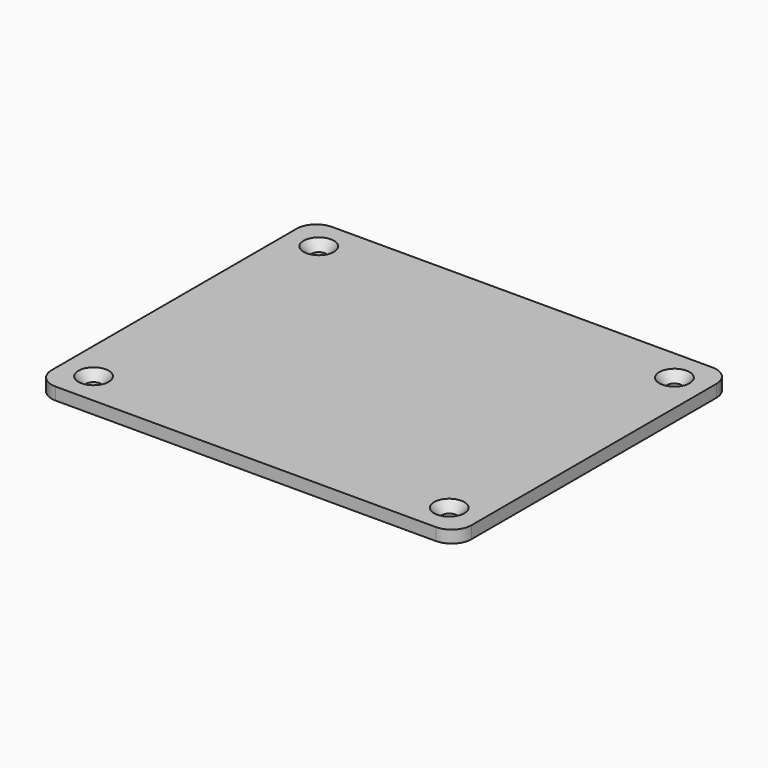
from build123d import *

# Parameters (mm, degrees)
F0_W           = 107.95
F0_H           = 88.9
F1_DEPTH       = 3.175
F3_D           = 3.7973
F3_CSINK_D     = 7.7978
F3_CSINK_ANGLE = 82
F4_R           = 5.08


with BuildPart() as f1:
    # F0 (on Top) → F1 (new body)
    with BuildSketch(Plane.XY):
        with Locations((53.975, 44.45)):
            Rectangle(F0_W, F0_H)
    extrude(amount=F1_DEPTH)

    # F3 (through all)
    with Locations(Plane.XY.offset(3.175)):
        with Locations((8.255, 80.645), (99.695, 80.645), (99.695, 8.255), (8.255, 8.255)):
            CounterSinkHole(F3_D / 2, F3_CSINK_D / 2, counter_sink_angle=F3_CSINK_ANGLE)

    # F4
    f4_edges = [f1.edges().sort_by_distance(p)[0] for p in [
        (0, 0, 1.5875),
        (107.95, 0, 1.5875),
        (107.95, 88.9, 1.5875),
        (0, 88.9, 1.5875),
    ]]
    fillet(f4_edges, radius=F4_R)


solid = f1.part
